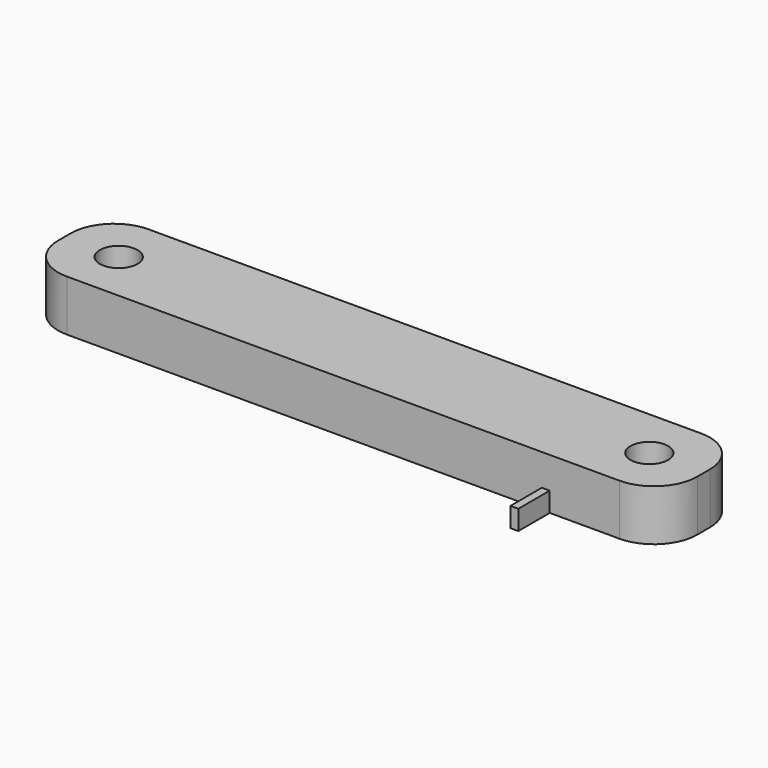
from build123d import *

# Parameters (mm, degrees)
F0_W     = 81.3
F0_H     = 13
F0_R     = 2.4
F1_DEPTH = 6.5
F2_R     = 5.5
F3_W     = 1
F3_H     = 2.5
F4_DEPTH = 5
F5_W     = 1
F5_H     = 2.5
F6_DEPTH = 5


with BuildPart() as f1:
    # F0 (on Top) → F1 (new body)
    with BuildSketch(Plane.XY):
        with Locations((0, 2.616273)):
            Rectangle(F0_W, F0_H)
        with Locations((-33.75, 2.616273)):
            Circle(F0_R, mode=Mode.SUBTRACT)
        with Locations((33.75, 2.616273)):
            Circle(F0_R, mode=Mode.SUBTRACT)
    extrude(amount=F1_DEPTH)

    # F2
    f2_edges = [f1.edges().sort_by_distance(p)[0] for p in [
        (-40.65, 9.116273, 3.25),
        (-40.65, -3.883727, 3.25),
        (40.65, -3.883727, 3.25),
        (40.65, 9.116273, 3.25),
    ]]
    fillet(f2_edges, radius=F2_R)

    # F3 (on face) → F4 (join)
    with BuildSketch(Plane.XZ.offset(3.883727)):
        with Locations((25.7837, 1.25)):
            Rectangle(F3_W, F3_H)
    extrude(amount=F4_DEPTH)

    # F5 (on face) → F6 (join)
    with BuildSketch(Plane(origin=(0, 9.116273, 0), x_dir=(-1, 0, 0), z_dir=(0, 1, 0))):
        with Locations((25.072782, 1.25)):
            Rectangle(F5_W, F5_H)
    extrude(amount=F6_DEPTH)


solid = f1.part
